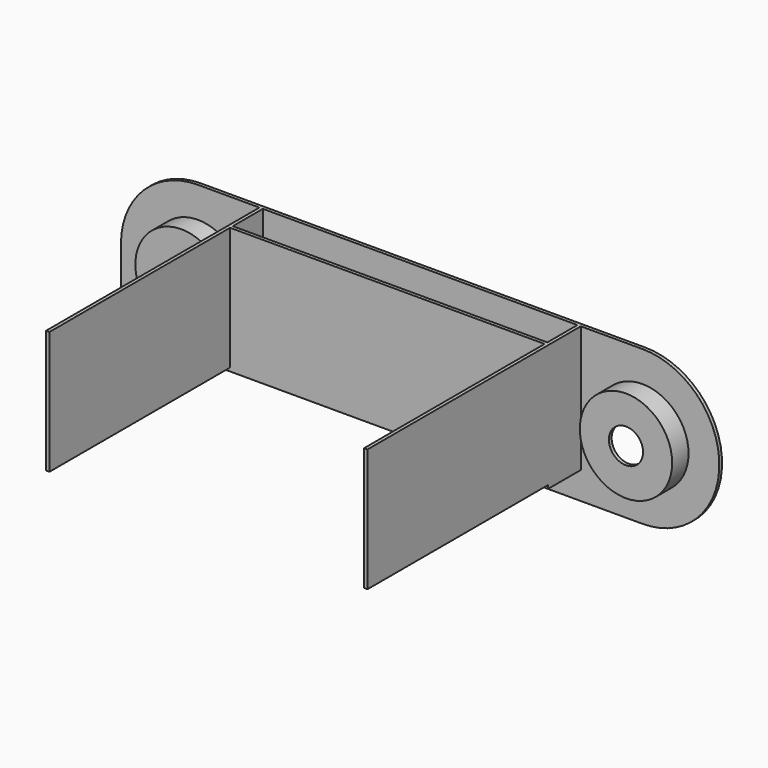
from build123d import *

# Parameters (mm, degrees)
F0_W      = 165
F0_H      = 45
F0_R      = 12.5
F1_DEPTH  = 1
F3_DEPTH  = 1
F4_DEPTH  = 25
F5_DEPTH  = 25
F6_R      = 13.5
F6_R_2    = 12.5
F7_DEPTH  = 5
F8_R      = 13.5
F8_R_2    = 5
F9_DEPTH  = 1
F11_DEPTH = 1
F12_W     = 1
F12_H     = 1
F12_H_2   = 36
F12_W_2   = 92
F13_DEPTH = 11
F14_W     = 94
F14_H     = 37
F15_DEPTH = 1
F16_W     = 1
F16_H     = 36
F17_DEPTH = 66
F18_W     = 26.2803444985
F18_H     = 1
F19_DEPTH = 3


with BuildPart() as f1:
    # F0 (on Front) → F1 (new body)
    with BuildSketch(Plane.XZ):
        Rectangle(F0_W, F0_H)
        with Locations((-65, 0)):
            Circle(F0_R, mode=Mode.SUBTRACT)
        with Locations((65, 0)):
            Circle(F0_R, mode=Mode.SUBTRACT)
    extrude(amount=F1_DEPTH)

    # F2 (on face) → F3 (join)
    with BuildSketch(Plane.XZ.offset(1)):
        with BuildLine():
            Line((68.3925151825, -19.0988145769), (65, -22.5))
            ThreePointArc((65, -22.5), (87.5, 0), (65, 22.5))
            Line((65, 22.5), (71.474224329, 16.2770561874))
            Line((71.474224329, 16.2770561874), (77.4062722921, 9.1145541519))
            Line((77.4062722921, 9.1145541519), (80.3926512599, 2.1407562308))
            Line((80.3926512599, 2.1407562308), (80.3926512599, -5.2317115478))
            Line((80.3926512599, -5.2317115478), (78.3914923668, -12.1520543471))
            Line((78.3914923668, -12.1520543471), (74.6632069349, -14.4081749022))
            Line((74.6632069349, -14.4081749022), (68.3925151825, -19.0988145769))
        make_face()
        with BuildLine():
            Line((-65, 14.9617949501), (-65, 22.5))
            ThreePointArc((-65, 22.5), (-87.5, 0), (-65, -22.5))
            Line((-65, -22.5), (-67.4760043621, -15.6979020685))
            Line((-67.4760043621, -15.6979020685), (-72.8440880775, -12.9142012447))
            Line((-72.8440880775, -12.9142012447), (-76.5851810575, -7.8018400818))
            Line((-76.5851810575, -7.8018400818), (-79.5639529824, 0))
            Line((-79.5639529824, 0), (-79.5639529824, 6.4657721668))
            Line((-79.5639529824, 6.4657721668), (-75.4495188594, 11.7608513683))
            Line((-75.4495188594, 11.7608513683), (-65, 14.9617949501))
        make_face()
    extrude(amount=-F3_DEPTH)

    # F2 (on face) → F4 (cut)
    with BuildSketch(Plane.XZ.offset(1)):
        with BuildLine():
            Line((-82.5, 22.5), (-82.5, 14.1421356237))
            ThreePointArc((-82.5, 14.1421356237), (-74.6966991411, 20.3033008589), (-65, 22.5))
            Line((-65, 22.5), (-82.5, 22.5))
        make_face()
    extrude(amount=-F4_DEPTH, mode=Mode.SUBTRACT)

    # F2 (on face) → F5 (cut)
    with BuildSketch(Plane.XZ.offset(1)):
        with BuildLine():
            ThreePointArc((82.5, -14.1421356237), (74.6966991411, -20.3033008589), (65, -22.5))
            Line((65, -22.5), (82.5, -22.5))
            Line((82.5, -22.5), (82.5, -14.1421356237))
        make_face()
        with BuildLine():
            ThreePointArc((65, 22.5), (74.6966991411, 20.3033008589), (82.5, 14.1421356237))
            Line((82.5, 14.1421356237), (82.5, 22.5))
            Line((82.5, 22.5), (65, 22.5))
        make_face()
        with BuildLine():
            Line((-82.5, -22.5), (-65, -22.5))
            ThreePointArc((-65, -22.5), (-74.6966991411, -20.3033008589), (-82.5, -14.1421356237))
            Line((-82.5, -14.1421356237), (-82.5, -22.5))
        make_face()
    extrude(amount=-F5_DEPTH, mode=Mode.SUBTRACT)

    # F6 (on face) → F7 (join)
    with BuildSketch(Plane.XZ.offset(1)):
        with Locations((-65, 0)):
            Circle(F6_R)
        with Locations((-65, 0)):
            Circle(F6_R_2, mode=Mode.SUBTRACT)
        with Locations((65, 0)):
            Circle(F6_R)
        with Locations((65, 0)):
            Circle(F6_R_2, mode=Mode.SUBTRACT)
    extrude(amount=F7_DEPTH)

    # F8 (on face) → F9 (join)
    with BuildSketch(Plane.XZ.offset(6)):
        with Locations((-65, 0)):
            Circle(F8_R)
        with Locations((-65, 0)):
            Circle(F8_R_2, mode=Mode.SUBTRACT)
        with Locations((65, 0)):
            Circle(F8_R)
        with Locations((65, 0)):
            Circle(F8_R_2, mode=Mode.SUBTRACT)
    extrude(amount=F9_DEPTH)

    # F10 (on face) → F11 (join)
    with BuildSketch(Plane.XZ.offset(1)):
        Polygon((-81.9395110011, 0), (-87.5, 0), (-87.5, -22.5), (-65, -22.5), (-65, -18.5897927731), (-73.3228996396, -16.0001199692), (-80.1934376359, -9.6208481118), align=None)
    extrude(amount=-F11_DEPTH)

    # F12 (on face) → F13 (join)
    with BuildSketch(Plane.XZ.offset(1)):
        with Locations((46.5, -14)):
            Rectangle(F12_W, F12_H)
        with Locations((46.5, 4.5)):
            Rectangle(F12_W, F12_H_2)
        with Locations((0, -14)):
            Rectangle(F12_W_2, F12_H)
        with Locations((-46.5, -14)):
            Rectangle(F12_W, F12_H)
        with Locations((-46.5, 4.5)):
            Rectangle(F12_W, F12_H_2)
    extrude(amount=F13_DEPTH)

    # F14 (on face) → F15 (join)
    with BuildSketch(Plane.XZ.offset(12)):
        with Locations((0, 4)):
            Rectangle(F14_W, F14_H)
    extrude(amount=F15_DEPTH)

    # F16 (on face) → F17 (join)
    with BuildSketch(Plane.XZ.offset(13)):
        with Locations((-46.5, 4.5)):
            Rectangle(F16_W, F16_H)
        with Locations((46.5, 4.5)):
            Rectangle(F16_W, F16_H)
    extrude(amount=F17_DEPTH)

    # F18 (on face) → F19 (join)
    with BuildSketch(Plane.XZ.offset(1)):
        with Locations((0.058112666, -11)):
            Rectangle(F18_W, F18_H)
    extrude(amount=F19_DEPTH)


solid = f1.part
